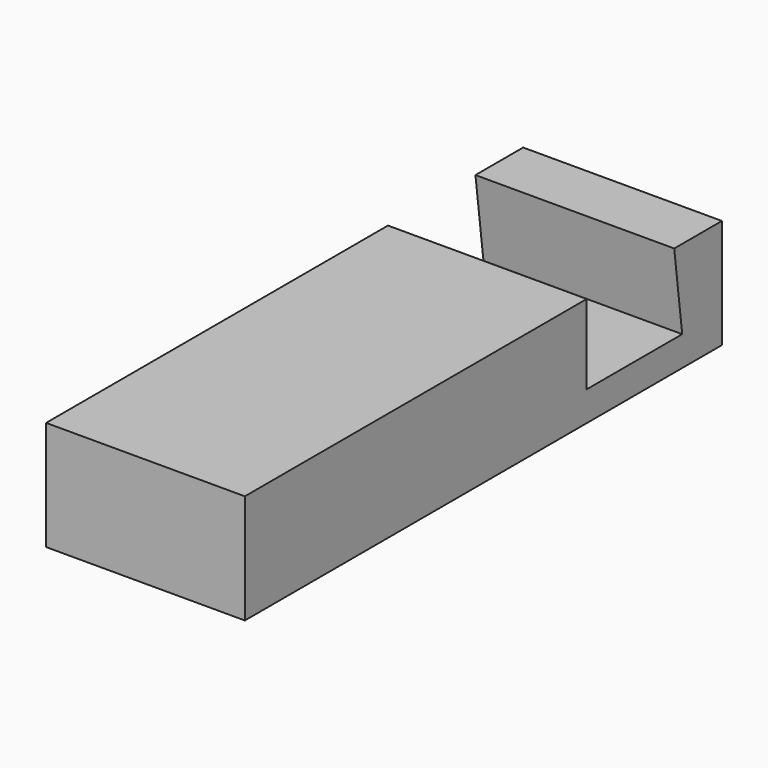
from build123d import *

# Parameters (mm, degrees)
EXTRUDE_DEPTH = 20


with BuildPart() as part:
    # Sketch → Extrude (new body)
    with BuildSketch(Plane.YZ):
        Polygon((0, 0), (60.00354, 0), (60.00354, 11.000834), (54.002468, 11.000834), (55.009186, 2.999962), (42.999404, 2.999962), (42.999404, 11.000834), (0, 11.000834), align=None)
    extrude(amount=EXTRUDE_DEPTH)


solid = part.part
